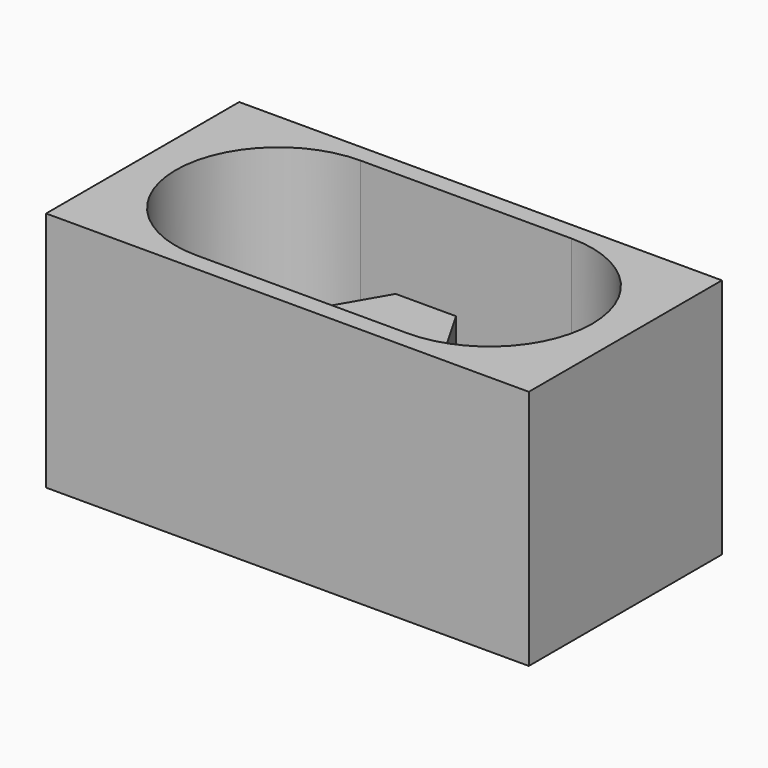
from build123d import *

# Parameters (mm, degrees)
SKETCH_W     = 80
SKETCH_H     = 40
PAD_DEPTH    = 40
POCKET_DEPTH = 40.001
SKETCH002_R  = 6.227756
PAD001_DEPTH = 40
PAD002_DEPTH = 28


with BuildPart() as part:
    # Sketch → Pad (new body)
    with BuildSketch(Plane.XY):
        Rectangle(SKETCH_W, SKETCH_H)
    extrude(amount=PAD_DEPTH)

    # Sketch001 (on Face6 of Pad) → Pocket (cut, through all)
    with BuildSketch(Plane.XY.offset(40)):
        with BuildLine():
            ThreePointArc((-17.5, 17), (-34.5, 0), (-17.5, -17))
            Line((-17.5, -17), (17.5, -17))
            ThreePointArc((17.5, -17), (34.5, 0), (17.5, 17))
            Line((-17.5, 17), (17.5, 17))
        make_face()
    extrude(amount=-POCKET_DEPTH, mode=Mode.SUBTRACT)

    # Sketch002 (on Face3 of Pocket) → Pad001 (join)
    with BuildSketch(Plane.YZ.offset(40)):
        with Locations((0, 19.750887)):
            Circle(SKETCH002_R)
    extrude(amount=-PAD001_DEPTH)

    # Sketch003 → Pad002 (join)
    with BuildSketch(Plane.XY):
        Polygon((10, 0), (5, 8.660254), (-5, 8.660254), (-10, 0), (-5, -8.660254), (5, -8.660254), align=None)
    extrude(amount=PAD002_DEPTH)


solid = part.part
